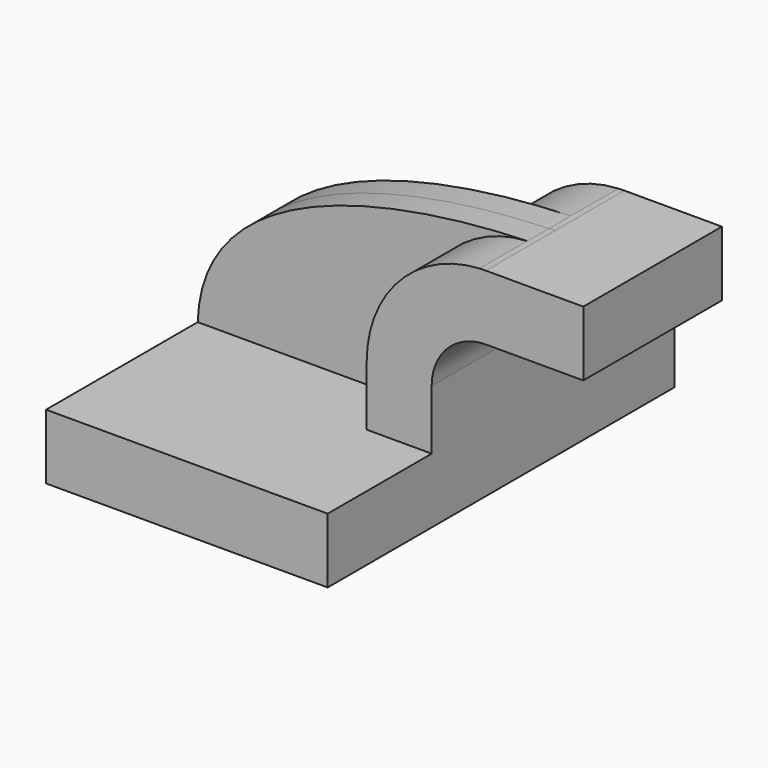
from build123d import *

# Parameters (mm, degrees)
F1_DEPTH = 63.5
F0_W     = 25.4
F0_H     = 19.05
F2_DEPTH = 25.4
F3_DEPTH = 7.9375


with BuildPart() as f1:
    # F0 (on Front) → F1 (new body, symmetric)
    with BuildSketch(Plane.XZ):
        Polygon((41.275, -9.525), (41.275, 9.525), (22.225, 9.525), (-41.275, 9.525), (-41.275, -9.525), align=None)
    extrude(amount=F1_DEPTH, both=True)

    # F0 (on Front) → F2 (join, symmetric)
    with BuildSketch(Plane.XZ):
        with BuildLine():
            Line((22.225, 9.525), (41.275, 9.525))
            Line((41.275, 9.525), (41.275, 27.0002))
            ThreePointArc((41.275, 27.0002), (45.9246798487, 38.2255201513), (57.15, 42.8752))
            Line((57.15, 42.8752), (60.325, 42.8752))
            Line((60.325, 42.8752), (60.325, 61.9252))
            Line((60.325, 61.9252), (57.15, 61.9252))
            add(Edge.make_bspline(
                [(55.3448990391, 61.8785204229), (55.9525265065, 61.8965004125), (56.5543434747, 61.9120279552), (57.15, 61.9252)],
                knots=[109.7015046992, 109.7015046992, 109.7015046992, 109.7015046992, 111.5045361635, 111.5045361635, 111.5045361635, 111.5045361635], degree=3))
            ThreePointArc((55.3448990391, 61.8785204229), (31.8241359865, 51.0492381714), (22.225, 27.0002))
            Line((22.225, 27.0002), (22.225, 9.525))
        make_face()
        with Locations((73.025, 52.4002)):
            Rectangle(F0_W, F0_H)
    extrude(amount=F2_DEPTH, both=True)

    # F0 (on Front) → F3 (join, symmetric)
    with BuildSketch(Plane.XZ):
        with BuildLine():
            Line((-41.275, 9.525), (22.225, 9.525))
            Line((22.225, 9.525), (22.225, 27.0002))
            ThreePointArc((22.225, 27.0002), (31.8241359865, 51.0492381714), (55.3448990391, 61.8785204229))
            add(Edge.make_bspline(
                [(-41.275, 9.525), (-40.1042120828, 50.6120289683), (18.3751351779, 60.7845672918), (55.3448990391, 61.8785204229)],
                knots=[0, 0, 0, 0, 109.7015046992, 109.7015046992, 109.7015046992, 109.7015046992], degree=3))
        make_face()
    extrude(amount=F3_DEPTH, both=True)


solid = f1.part
